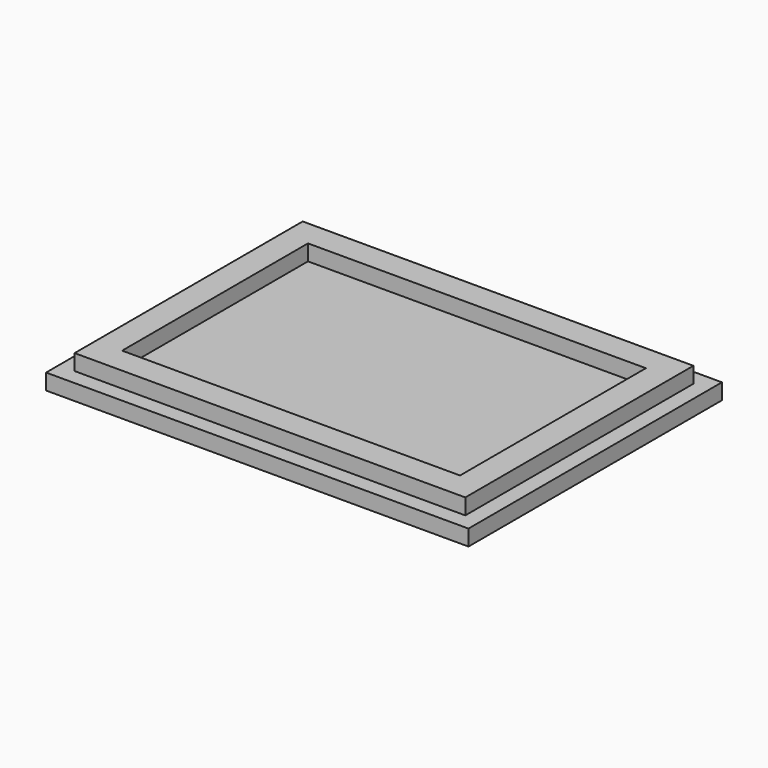
from build123d import *

# Parameters (mm, degrees)
F0_W     = 64
F0_H     = 44
F1_DEPTH = 3
F0_W_2   = 80
F0_H_2   = 60
F0_W_3   = 74
F0_H_3   = 54
F2_DEPTH = 6


with BuildPart() as f1:
    # F0 (on Top) → F1 (new body)
    with BuildSketch(Plane.XY):
        with Locations((40, 30)):
            Rectangle(F0_W, F0_H)
    extrude(amount=F1_DEPTH)



with BuildPart() as f1b:
    # F0 (on Top) → F1, piece 2 (new body)
    with BuildSketch(Plane.XY):
        with Locations((40, 30)):
            Rectangle(F0_W_2, F0_H_2)
        with Locations((40, 30)):
            Rectangle(F0_W_3, F0_H_3, mode=Mode.SUBTRACT)
    extrude(amount=F1_DEPTH)


with BuildPart() as f1_1:
    add(f1.part)

    add(f1b.part)  # F2 merges F1b
    # F0 (on Top) → F2 (join)
    with BuildSketch(Plane.XY):
        with Locations((40, 30)):
            Rectangle(F0_W_3, F0_H_3)
        with Locations((40, 30)):
            Rectangle(F0_W, F0_H, mode=Mode.SUBTRACT)
    extrude(amount=F2_DEPTH)


solid = f1_1.part
